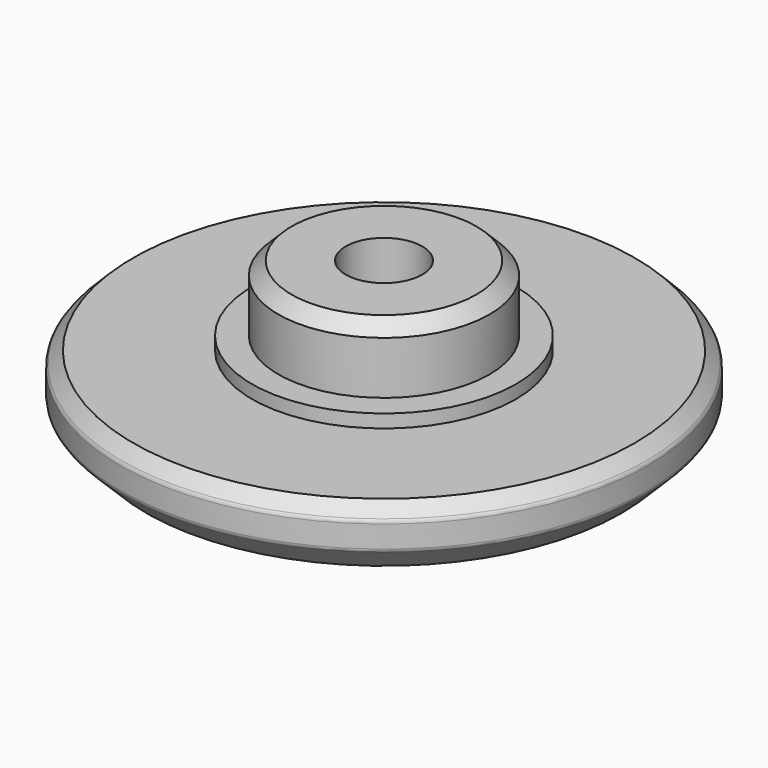
from build123d import *

# Parameters (mm, degrees)
F0_R      = 4
F1_DEPTH  = 5.5
F2_R      = 5
F3_DEPTH  = 3
F4_R      = 10
F5_DEPTH  = 2.5
F6_SIZE   = 1
F7_SIZE   = 0.5
F8_R      = 0.2
F9_SIZE   = 0.5
F11_R     = 2.8
F12_DEPTH = 3.1
F13_R     = 1.45
F14_DEPTH = 8.4


with BuildPart() as f1:
    # F0 (on Top) → F1 (new body)
    with BuildSketch(Plane.XY):
        Circle(F0_R)
    extrude(amount=F1_DEPTH)

    # F2 (on Top) → F3 (join)
    with BuildSketch(Plane.XY):
        Circle(F2_R)
    extrude(amount=F3_DEPTH)

    # F4 (on Top) → F5 (join)
    with BuildSketch(Plane.XY):
        Circle(F4_R)
    extrude(amount=F5_DEPTH)

    # F6
    f6_edges = [f1.edges().sort_by_distance(p)[0] for p in [
        (-10, 0, 0),
    ]]
    chamfer(f6_edges, length=F6_SIZE)

    # F7
    f7_edges = [f1.edges().sort_by_distance(p)[0] for p in [
        (-10, 0, 2.5),
    ]]
    chamfer(f7_edges, length=F7_SIZE)

    # F8
    f8_edges = [f1.edges().sort_by_distance(p)[0] for p in [
        (-10, 0, 1),
        (-10, 0, 2),
    ]]
    fillet(f8_edges, radius=F8_R)

    # F9
    f9_edges = [f1.edges().sort_by_distance(p)[0] for p in [
        (-4, 0, 5.5),
    ]]
    chamfer(f9_edges, length=F9_SIZE)


with BuildPart() as f10_1:
    # F10: copy of F1
    add(f1.part.moved(Location((-25, 0, 0))))


with BuildPart() as f1_1:
    add(f1.part)

    # F11 (on Top) → F12 (cut)
    with BuildSketch(Plane.XY):
        Circle(F11_R)
    extrude(amount=F12_DEPTH, mode=Mode.SUBTRACT)

    # F13 (on Top) → F14 (cut)
    with BuildSketch(Plane.XY):
        Circle(F13_R)
    extrude(amount=F14_DEPTH, mode=Mode.SUBTRACT)


with BuildPart() as f16_1:
    # F16: copy of F1
    add(f1_1.part.moved(Location((-23.4, 0, 0))))


solid = f1_1.part
